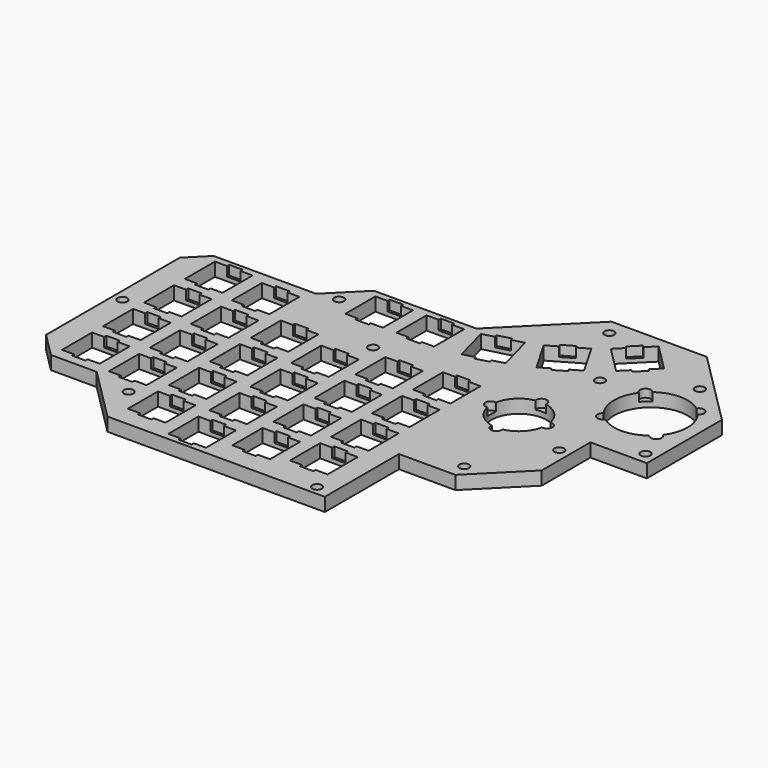
from build123d import *

# Parameters (mm, degrees)
SKETCH004_R     = 1.8
SKETCH004_R_2   = 13.7
SKETCH004_R_3   = 10.3
SKETCH004_W     = 14
SKETCH004_H     = 14
PAD003_DEPTH    = 5
SKETCH005_W     = 5
SKETCH005_H     = 16
POCKET001_DEPTH = 3.5
POCKET004_DEPTH = 3


with BuildPart() as part:
    # Sketch004 → Pad003 (new body)
    with BuildSketch(Plane.XY):
        Polygon((-140.75, 4), (-160.75, 24), (-177.8, 24), (-186.8, 33), (-186.8, 95.2), (-179.8, 102.2), (-141.7, 102.2), (-129.7, 114.2), (-91.6, 114.2), (-63.67, 142.13), (-28.19, 142.13), (0, 113.94), (0, 79), (-21, 79), (-21, 56.35), (-38.85, 38.5), (-59.85, 38.5), (-59.85, 4), align=None)
        with Locations((-17.095, 125.035)):
            Circle(SKETCH004_R, mode=Mode.SUBTRACT)
        with Locations((-59.67, 136.13)):
            Circle(SKETCH004_R, mode=Mode.SUBTRACT)
        with Locations((-43.18, 111.16)):
            Circle(SKETCH004_R, mode=Mode.SUBTRACT)
        with Locations((-4, 83.4)):
            Circle(SKETCH004_R, mode=Mode.SUBTRACT)
        with Locations((-25, 69.5)):
            Circle(SKETCH004_R, mode=Mode.SUBTRACT)
        with Locations((-40.2, 44.3)):
            Circle(SKETCH004_R, mode=Mode.SUBTRACT)
        with Locations((-65.5, 7.45)):
            Circle(SKETCH004_R, mode=Mode.SUBTRACT)
        with Locations((-145.7, 20)):
            Circle(SKETCH004_R, mode=Mode.SUBTRACT)
        with Locations((-183.25, 64.1)):
            Circle(SKETCH004_R, mode=Mode.SUBTRACT)
        with Locations((-107.6, 86.15)):
            Circle(SKETCH004_R, mode=Mode.SUBTRACT)
        with Locations((-134.2, 103.6)):
            Circle(SKETCH004_R, mode=Mode.SUBTRACT)
        with Locations((-18.48, 103.96)):
            Circle(SKETCH004_R_2, mode=Mode.SUBTRACT)
        with Locations((-48, 79.5)):
            Circle(SKETCH004_R_3, mode=Mode.SUBTRACT)
        with Locations((-75.025, 22.525)):
            Rectangle(SKETCH004_W, SKETCH004_H, mode=Mode.SUBTRACT)
        with Locations((-75.025, 41.575)):
            Rectangle(SKETCH004_W, SKETCH004_H, mode=Mode.SUBTRACT)
        with Locations((-75.025, 60.625)):
            Rectangle(SKETCH004_W, SKETCH004_H, mode=Mode.SUBTRACT)
        with Locations((-75.025, 79.675)):
            Rectangle(SKETCH004_W, SKETCH004_H, mode=Mode.SUBTRACT)
        with Locations((-94.075, 19.525)):
            Rectangle(SKETCH004_W, SKETCH004_H, mode=Mode.SUBTRACT)
        with Locations((-94.075, 38.575)):
            Rectangle(SKETCH004_W, SKETCH004_H, mode=Mode.SUBTRACT)
        with Locations((-94.075, 57.625)):
            Rectangle(SKETCH004_W, SKETCH004_H, mode=Mode.SUBTRACT)
        with Locations((-94.075, 76.675)):
            Rectangle(SKETCH004_W, SKETCH004_H, mode=Mode.SUBTRACT)
        with Locations((-113.125, 13.525)):
            Rectangle(SKETCH004_W, SKETCH004_H, mode=Mode.SUBTRACT)
        with Locations((-132.175, 18.525)):
            Rectangle(SKETCH004_W, SKETCH004_H, mode=Mode.SUBTRACT)
        with Locations((-151.225, 33.525)):
            Rectangle(SKETCH004_W, SKETCH004_H, mode=Mode.SUBTRACT)
        with Locations((-170.275, 35.525)):
            Rectangle(SKETCH004_W, SKETCH004_H, mode=Mode.SUBTRACT)
        with Locations((-113.125, 32.575)):
            Rectangle(SKETCH004_W, SKETCH004_H, mode=Mode.SUBTRACT)
        with Locations((-113.125, 51.625)):
            Rectangle(SKETCH004_W, SKETCH004_H, mode=Mode.SUBTRACT)
        with Locations((-113.125, 70.675)):
            Rectangle(SKETCH004_W, SKETCH004_H, mode=Mode.SUBTRACT)
        with Locations((-132.175, 37.575)):
            Rectangle(SKETCH004_W, SKETCH004_H, mode=Mode.SUBTRACT)
        with Locations((-132.175, 56.625)):
            Rectangle(SKETCH004_W, SKETCH004_H, mode=Mode.SUBTRACT)
        with Locations((-132.175, 75.675)):
            Rectangle(SKETCH004_W, SKETCH004_H, mode=Mode.SUBTRACT)
        with Locations((-151.225, 52.575)):
            Rectangle(SKETCH004_W, SKETCH004_H, mode=Mode.SUBTRACT)
        with Locations((-151.225, 71.625)):
            Rectangle(SKETCH004_W, SKETCH004_H, mode=Mode.SUBTRACT)
        with Locations((-151.225, 90.675)):
            Rectangle(SKETCH004_W, SKETCH004_H, mode=Mode.SUBTRACT)
        with Locations((-170.275, 54.575)):
            Rectangle(SKETCH004_W, SKETCH004_H, mode=Mode.SUBTRACT)
        with Locations((-170.275, 73.625)):
            Rectangle(SKETCH004_W, SKETCH004_H, mode=Mode.SUBTRACT)
        with Locations((-170.275, 92.675)):
            Rectangle(SKETCH004_W, SKETCH004_H, mode=Mode.SUBTRACT)
        with Locations((-120.175, 104.675)):
            Rectangle(SKETCH004_W, SKETCH004_H, mode=Mode.SUBTRACT)
        with Locations((-101.125, 104.675)):
            Rectangle(SKETCH004_W, SKETCH004_H, mode=Mode.SUBTRACT)
        Polygon((-74.984558, 116.038022), (-88.507519, 112.414555), (-84.884053, 98.891594), (-71.361091, 102.51506), align=None, mode=Mode.SUBTRACT)
        Polygon((-57.625543, 125.206289), (-69.749899, 118.206289), (-62.749899, 106.081933), (-50.625543, 113.081933), align=None, mode=Mode.SUBTRACT)
        Polygon((-33.33145, 128.655503), (-43.230945, 138.554998), (-53.13044, 128.655503), (-43.230945, 118.756008), align=None, mode=Mode.SUBTRACT)
    extrude(amount=-PAD003_DEPTH)

    # Sketch005 → Pocket001 (cut)
    with BuildSketch(Plane.XY):
        with Locations((-120.175, 104.675)):
            Rectangle(SKETCH005_W, SKETCH005_H)
        with Locations((-101.125, 104.675)):
            Rectangle(SKETCH005_W, SKETCH005_H)
        with Locations((-170.275, 92.675)):
            Rectangle(SKETCH005_W, SKETCH005_H)
        with Locations((-151.225, 90.675)):
            Rectangle(SKETCH005_W, SKETCH005_H)
        with Locations((-170.275, 73.625)):
            Rectangle(SKETCH005_W, SKETCH005_H)
        with Locations((-151.225, 71.625)):
            Rectangle(SKETCH005_W, SKETCH005_H)
        with Locations((-132.175, 75.675)):
            Rectangle(SKETCH005_W, SKETCH005_H)
        with Locations((-113.125, 70.675)):
            Rectangle(SKETCH005_W, SKETCH005_H)
        with Locations((-94.075, 76.675)):
            Rectangle(SKETCH005_W, SKETCH005_H)
        with Locations((-75.025, 79.675)):
            Rectangle(SKETCH005_W, SKETCH005_H)
        with Locations((-170.275, 54.575)):
            Rectangle(SKETCH005_W, SKETCH005_H)
        with Locations((-151.225, 52.575)):
            Rectangle(SKETCH005_W, SKETCH005_H)
        with Locations((-132.175, 56.625)):
            Rectangle(SKETCH005_W, SKETCH005_H)
        with Locations((-113.125, 51.625)):
            Rectangle(SKETCH005_W, SKETCH005_H)
        with Locations((-94.075, 57.625)):
            Rectangle(SKETCH005_W, SKETCH005_H)
        with Locations((-75.025, 60.625)):
            Rectangle(SKETCH005_W, SKETCH005_H)
        with Locations((-75.025, 41.575)):
            Rectangle(SKETCH005_W, SKETCH005_H)
        with Locations((-94.075, 38.575)):
            Rectangle(SKETCH005_W, SKETCH005_H)
        with Locations((-113.125, 32.575)):
            Rectangle(SKETCH005_W, SKETCH005_H)
        with Locations((-132.175, 37.575)):
            Rectangle(SKETCH005_W, SKETCH005_H)
        with Locations((-151.225, 33.525)):
            Rectangle(SKETCH005_W, SKETCH005_H)
        with Locations((-170.275, 35.525)):
            Rectangle(SKETCH005_W, SKETCH005_H)
        with Locations((-132.175, 18.525)):
            Rectangle(SKETCH005_W, SKETCH005_H)
        with Locations((-113.125, 13.525)):
            Rectangle(SKETCH005_W, SKETCH005_H)
        with Locations((-94.075, 19.525)):
            Rectangle(SKETCH005_W, SKETCH005_H)
        with Locations((-75.025, 22.525)):
            Rectangle(SKETCH005_W, SKETCH005_H)
        Polygon((-75.448938, 100.384449), (-79.590043, 115.839262), (-84.419672, 114.545167), (-80.278567, 99.090354), align=None)
        Polygon((-54.022658, 109.965908), (-62.022658, 123.822314), (-66.352785, 121.322314), (-58.352785, 107.465908), align=None)
        Polygon((-35.806324, 124.766416), (-47.120032, 136.080124), (-50.655566, 132.54459), (-39.341858, 121.230882), align=None)
    extrude(amount=-POCKET001_DEPTH, mode=Mode.SUBTRACT)

    # Sketch010 → Pocket004 (cut)
    with BuildSketch(Plane.XY):
        with BuildLine():
            ThreePointArc((-26.965281, 115.273708), (-29.793708, 115.273708), (-29.793708, 112.445281))
            Line((-29.793708, 112.445281), (-21.308427, 103.96))
            Line((-21.308427, 103.96), (-29.793708, 95.474719))
            ThreePointArc((-29.793708, 95.474719), (-29.793708, 92.646292), (-26.965281, 92.646292))
            Line((-18.48, 101.131573), (-26.965281, 92.646292))
            Line((-9.994719, 92.646292), (-18.48, 101.131573))
            ThreePointArc((-9.994719, 92.646292), (-7.166292, 92.646292), (-7.166292, 95.474719))
            Line((-7.166292, 95.474719), (-15.651573, 103.96))
            Line((-7.166292, 112.445281), (-15.651573, 103.96))
            ThreePointArc((-7.166292, 112.445281), (-7.166292, 115.273708), (-9.994719, 115.273708))
            Line((-18.48, 106.788427), (-9.994719, 115.273708))
            Line((-26.965281, 115.273708), (-18.48, 106.788427))
        make_face()
        with BuildLine():
            ThreePointArc((-58.5, 81.5), (-60.5, 79.5), (-58.5, 77.5))
            Line((-58.5, 77.5), (-50, 77.5))
            Line((-50, 69), (-50, 77.5))
            ThreePointArc((-50, 69), (-48, 67), (-46, 69))
            Line((-46, 69), (-46, 77.5))
            Line((-37.5, 77.5), (-46, 77.5))
            ThreePointArc((-37.5, 77.5), (-35.5, 79.5), (-37.5, 81.5))
            Line((-37.5, 81.5), (-46, 81.5))
            Line((-46, 90), (-46, 81.5))
            ThreePointArc((-46, 90), (-48, 92), (-50, 90))
            Line((-50, 90), (-50, 81.5))
            Line((-58.5, 81.5), (-50, 81.5))
        make_face()
    extrude(amount=-POCKET004_DEPTH, mode=Mode.SUBTRACT)


with BuildPart() as part_1:
    # Body001 placement: moved
    add(part.part.moved(Location((147.16, -94.9, -102.5))))


solid = part_1.part
